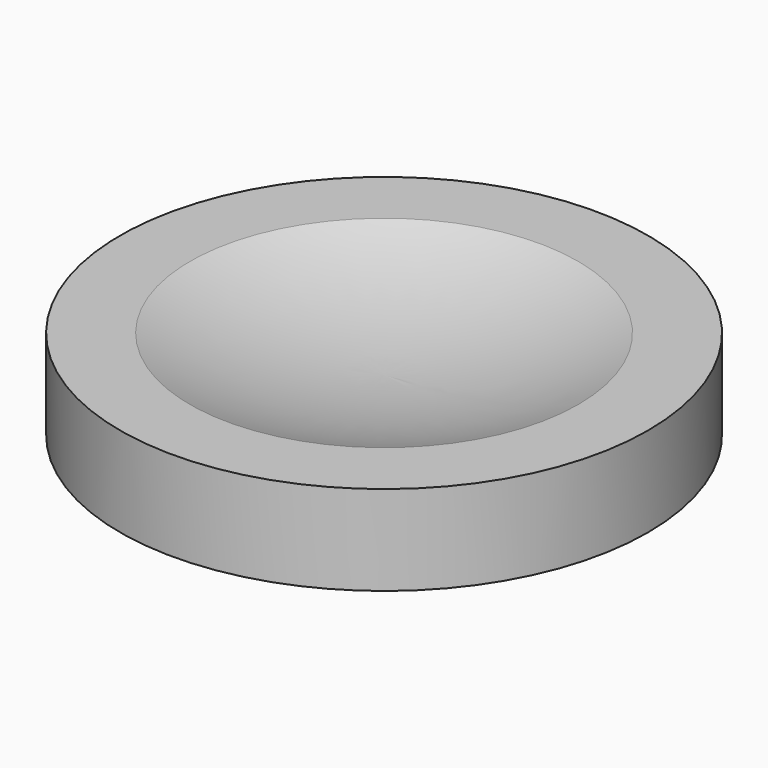
from build123d import *


with BuildPart() as f1:
    # F0 (on Front) → F1 (revolve)
    with BuildSketch(Plane.XZ):
        with BuildLine():
            ThreePointArc((23.340029, 0), (11.879762, -3.323853), (0, -4.445))
            Line((0, -4.445), (0, -6.985))
            Line((0, -6.985), (1.625, -6.985))
            Line((1.625, -6.985), (1.625, -15.985))
            Line((1.625, -15.985), (4.165, -15.985))
            Line((4.165, -15.985), (4.165, -6.85353))
            ThreePointArc((4.165, -6.85353), (14.157174, -5.449698), (23.818849, -2.54))
            Line((23.818849, -2.54), (29.21, -2.54))
            Line((29.21, -2.54), (29.21, -10.795))
            Line((29.21, -10.795), (31.75, -10.795))
            Line((31.75, -10.795), (31.75, 0))
            Line((31.75, 0), (23.340029, 0))
        make_face()
    revolve(axis=Axis((0, 0, -5.715), (0, 0, -1)))


solid = f1.part
